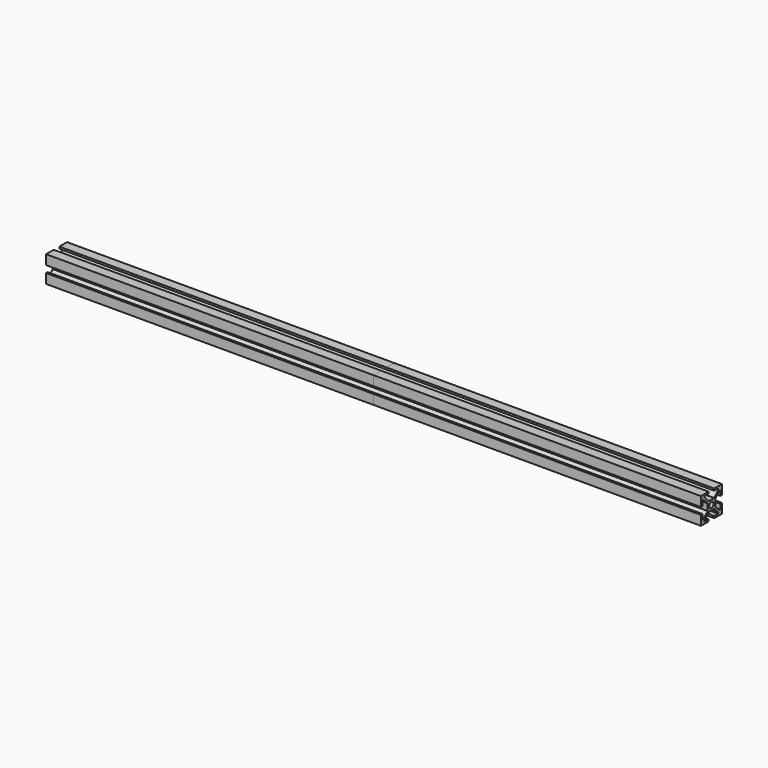
from build123d import *

# Parameters (mm, degrees)
F1_DEPTH = 500
F2_D     = 4.19
F3_DEPTH = 250


with BuildPart() as f1:
    # F0 (on Right) → F1 (new body)
    with BuildSketch(Plane.YZ):
        Polygon((-12.63, 20), (-20, 20), (-20, 12.63), (-18.5, 12.63), (-18.5, 16.4394841107), (-17.5001442825, 16.4394841107), (-13.655, 12.5943398282), (-13.655, 7.4056601718), (-17.5001442825, 3.5605158893), (-18.5, 3.5605158893), (-18.5, 7.37), (-20, 7.37), (-20, 0), (-12.63, 0), (-12.63, 1.5), (-16.4394841107, 1.5), (-16.4394841107, 2.4998557175), (-12.5943398282, 6.345), (-7.4056601718, 6.345), (-3.5605158893, 2.4998557175), (-3.5605158893, 1.5), (-7.37, 1.5), (-7.37, 0), (0, 0), (0, 7.37), (-1.5, 7.37), (-1.5, 3.5605158893), (-2.4998557175, 3.5605158893), (-6.345, 7.4056601718), (-6.345, 12.5943398282), (-2.4998557175, 16.4394841107), (-1.5, 16.4394841107), (-1.5, 12.63), (0, 12.63), (0, 20), (-7.37, 20), (-7.37, 18.5), (-3.5605158893, 18.5), (-3.5605158893, 17.5001442825), (-7.4056601718, 13.655), (-12.5943398282, 13.655), (-16.4394841107, 17.5001442825), (-16.4394841107, 18.5), (-12.63, 18.5), align=None)
    extrude(amount=F1_DEPTH)

    # F2 (through all)
    with Locations(Plane(origin=(0, 0, 0), x_dir=(0, 1, 0), z_dir=(-1, 0, 0))):
        with Locations((-10, -10)):
            Hole(F2_D / 2)


with BuildPart() as f3:
    # F0 (on Right) → F3 (new body)
    with BuildSketch(Plane.YZ):
        Polygon((-12.63, 20), (-20, 20), (-20, 12.63), (-18.5, 12.63), (-18.5, 16.4394841107), (-17.5001442825, 16.4394841107), (-13.655, 12.5943398282), (-13.655, 7.4056601718), (-17.5001442825, 3.5605158893), (-18.5, 3.5605158893), (-18.5, 7.37), (-20, 7.37), (-20, 0), (-12.63, 0), (-12.63, 1.5), (-16.4394841107, 1.5), (-16.4394841107, 2.4998557175), (-12.5943398282, 6.345), (-7.4056601718, 6.345), (-3.5605158893, 2.4998557175), (-3.5605158893, 1.5), (-7.37, 1.5), (-7.37, 0), (0, 0), (0, 7.37), (-1.5, 7.37), (-1.5, 3.5605158893), (-2.4998557175, 3.5605158893), (-6.345, 7.4056601718), (-6.345, 12.5943398282), (-2.4998557175, 16.4394841107), (-1.5, 16.4394841107), (-1.5, 12.63), (0, 12.63), (0, 20), (-7.37, 20), (-7.37, 18.5), (-3.5605158893, 18.5), (-3.5605158893, 17.5001442825), (-7.4056601718, 13.655), (-12.5943398282, 13.655), (-16.4394841107, 17.5001442825), (-16.4394841107, 18.5), (-12.63, 18.5), align=None)
    extrude(amount=F3_DEPTH)


solid = Compound([f1.part, f3.part])
